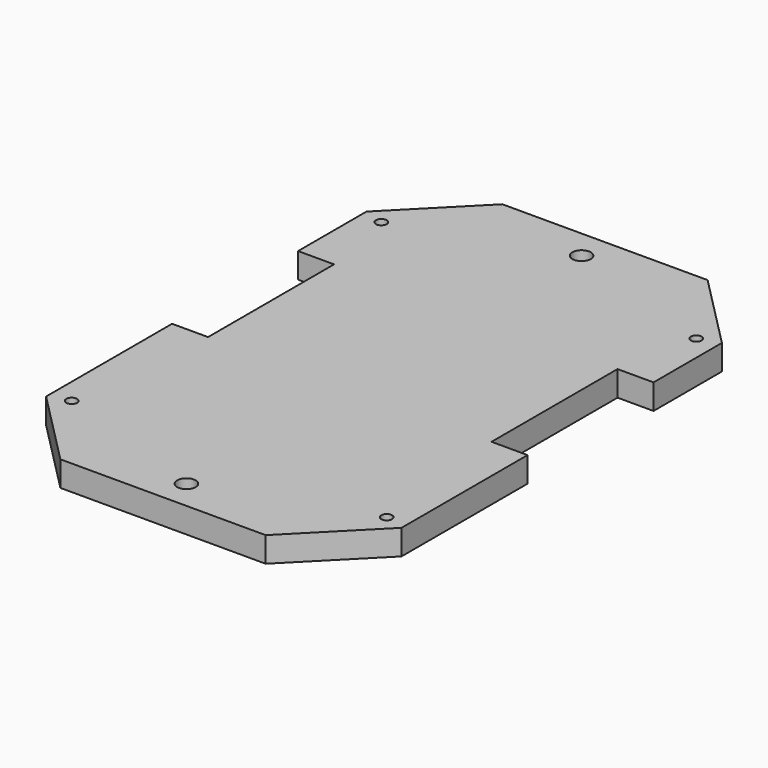
from build123d import *

# Parameters (mm, degrees)
F0_R     = 1.2
F0_R_2   = 2.05
F1_DEPTH = 5.6


with BuildPart() as f1:
    # F0 (on Top) → F1 (new body)
    with BuildSketch(Plane.XY):
        with BuildLine():
            Line((31.5, 25.5), (39.5, 25.5))
            Line((39.5, 25.5), (39.5, 44.5))
            Line((39.5, 44.5), (22.808842361, 61.3844171166))
            Line((22.808842361, 61.3844171166), (0, 61.3844171166))
            Line((0, 61.3844171166), (-22.808842361, 61.3844171166))
            Line((-22.808842361, 61.3844171166), (-39.5, 44.5))
            Line((-39.5, 44.5), (-39.5, 25.5))
            Line((-39.5, 25.5), (-31.5, 25.5))
            Line((-31.5, 25.5), (-31.5, 18.901754251))
            ThreePointArc((-31.5, 18.901754251), (0, 41), (31.5, 18.901754251))
            Line((31.5, 18.901754251), (31.5, 25.5))
        make_face()
        with Locations((-35, 43)):
            Circle(F0_R, mode=Mode.SUBTRACT)
        with Locations((0, 54.8844171166)):
            Circle(F0_R_2, mode=Mode.SUBTRACT)
        with Locations((35, 43)):
            Circle(F0_R, mode=Mode.SUBTRACT)
        with BuildLine():
            ThreePointArc((-31.5, -3.901754251), (0, -26), (31.5, -3.901754251))
            Line((31.5, -3.901754251), (31.5, 18.901754251))
            ThreePointArc((31.5, 18.901754251), (0, 41), (-31.5, 18.901754251))
            Line((-31.5, 18.901754251), (-31.5, -3.901754251))
        make_face()
        with BuildLine():
            Line((22.808842361, -61.3844171166), (39.5, -44.5))
            Line((39.5, -44.5), (39.5, -9.5))
            Line((39.5, -9.5), (31.5, -9.5))
            Line((31.5, -9.5), (31.5, -3.901754251))
            ThreePointArc((31.5, -3.901754251), (0, -26), (-31.5, -3.901754251))
            Line((-31.5, -3.901754251), (-31.5, -9.5))
            Line((-31.5, -9.5), (-39.5, -9.5))
            Line((-39.5, -9.5), (-39.5, -44.5))
            Line((-39.5, -44.5), (-22.808842361, -61.3844171166))
            Line((-22.808842361, -61.3844171166), (0, -61.3844171166))
            Line((0, -61.3844171166), (22.808842361, -61.3844171166))
        make_face()
        with Locations((-35, -43)):
            Circle(F0_R, mode=Mode.SUBTRACT)
        with Locations((0, -54.8844171166)):
            Circle(F0_R_2, mode=Mode.SUBTRACT)
        with Locations((35, -43)):
            Circle(F0_R, mode=Mode.SUBTRACT)
    extrude(amount=F1_DEPTH)


solid = f1.part
